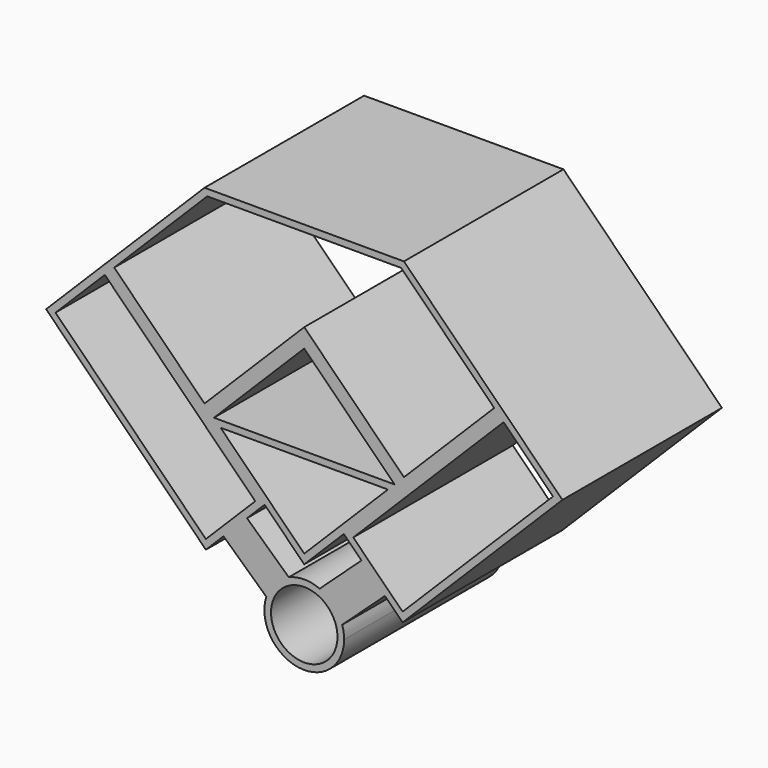
from build123d import *

# Parameters (mm, degrees)
F0_R     = 50
F1_DEPTH = 300


with BuildPart() as f1:
    # F0 (on Front) → F1 (new body)
    with BuildSketch(Plane.XZ):
        Polygon((-150, -150), (-300, 0), (-388.388348, -88.388348), (-147.972042, -328.804653), (-121.47121, -302.303821), (-86.084527, -266.917138), (-59.583694, -240.416306), align=None)
        Polygon((-374.246212, -88.388348), (-300, -14.142136), (-73.72583, -240.416306), (-147.972042, -314.662518), align=None, mode=Mode.SUBTRACT)
        Polygon((-150, 150), (-300, 0), (-150, -150), (0, 0), (150, -150), (225.000005, -74.999995), (300, 0), (150, 150), align=None)
        Polygon((0, 14.142136), (-150, -135.857864), (-285.857864, 0), (-145.857864, 140), (145.857864, 140), (285.857864, 0), (217.928937, -67.928927), (150, -135.857864), align=None, mode=Mode.SUBTRACT)
        Polygon((388.388348, -88.388348), (300, 0), (225.000005, -74.999995), (150, -150), (59.583694, -240.416306), (86.084527, -266.917138), (121.47121, -302.303821), (147.972042, -328.804653), align=None)
        Polygon((147.972042, -314.662518), (73.72583, -240.416306), (300, -14.142136), (374.246212, -88.388348), align=None, mode=Mode.SUBTRACT)
        with BuildLine():
            Line((-86.084527, -266.917138), (-121.47121, -302.303821))
            Line((-121.47121, -302.303821), (-57.075043, -361.494856))
            ThreePointArc((-57.075043, -361.494856), (-44.174127, -339.39646), (-23.238764, -324.683088))
            Line((-23.238764, -324.683088), (-86.084527, -266.917138))
        make_face()
        with BuildLine():
            ThreePointArc((-23.238764, -324.683088), (-44.174127, -339.39646), (-57.075043, -361.494856))
            ThreePointArc((-57.075043, -361.494856), (-9.367444, -439.264243), (59.999994, -379.999995))
            ThreePointArc((59.999994, -379.999995), (59.264243, -370.632559), (57.075032, -361.494859))
            ThreePointArc((57.075032, -361.494859), (44.174118, -339.396463), (23.238756, -324.68309))
            ThreePointArc((23.238756, -324.68309), (-4e-06, -319.999995), (-23.238764, -324.683088))
        make_face()
        with Locations((-6e-06, -379.999995)):
            Circle(F0_R, mode=Mode.SUBTRACT)
        with BuildLine():
            Line((121.47121, -302.303821), (86.084527, -266.917138))
            Line((86.084527, -266.917138), (23.238756, -324.68309))
            ThreePointArc((23.238756, -324.68309), (44.174118, -339.396463), (57.075032, -361.494859))
            Line((57.075032, -361.494859), (121.47121, -302.303821))
        make_face()
        Polygon((0, 0), (-150, -150), (-59.583694, -240.416306), (0, -300), (59.583694, -240.416306), (150, -150), align=None)
        Polygon((125.857864, -160), (0, -285.857864), (-125.857864, -160), (-135.857864, -150), (-67.928932, -82.071068), (0, -14.142136), (67.928932, -82.071068), (135.857864, -150), align=None, mode=Mode.SUBTRACT)
        Polygon((-135.857864, -150), (-125.857864, -160), (125.857864, -160), (135.857864, -150), align=None)
    extrude(amount=F1_DEPTH)


solid = f1.part
